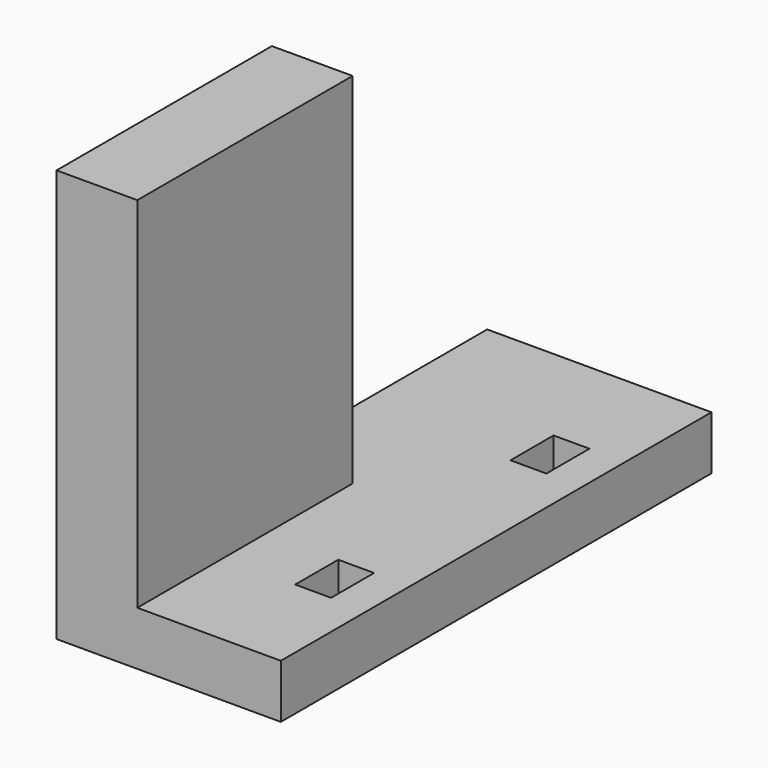
from build123d import *

# Parameters (mm, degrees)
BOX007_W     = 2
BOX007_H     = 3
BOX007_DEPTH = 3
BOX008_W     = 2
BOX008_H     = 3
BOX008_DEPTH = 3
BOX006_W     = 12.5
BOX006_H     = 30
BOX006_DEPTH = 3
BOX005_W     = 4.5
BOX005_H     = 15
BOX005_DEPTH = 20


with BuildPart() as cube007:
    # Box007 → Box007 (new body)
    with BuildSketch(Plane(origin=(-5.5, -34, -3), x_dir=(1, 0, 0), z_dir=(0, 0, 1))):
        with Locations((1, 1.5)):
            Rectangle(BOX007_W, BOX007_H)
    extrude(amount=BOX007_DEPTH)


with BuildPart() as fusion:
    # Box008 → Box008 (new body)
    with BuildSketch(Plane(origin=(-5.5, -19, -3), x_dir=(1, 0, 0), z_dir=(0, 0, 1))):
        with Locations((1, 1.5)):
            Rectangle(BOX008_W, BOX008_H)
    extrude(amount=BOX008_DEPTH)

    # Fusion: union Cube007
    add(cube007.part)


with BuildPart() as cut004:
    # Box006 → Box006 (new body)
    with BuildSketch(Plane(origin=(-14, -40, -3), x_dir=(1, 0, 0), z_dir=(0, 0, 1))):
        with Locations((6.25, 15)):
            Rectangle(BOX006_W, BOX006_H)
    extrude(amount=BOX006_DEPTH)

    # Cut004: cut Fusion
    add(fusion.part, mode=Mode.SUBTRACT)


with BuildPart() as lock:
    # Box005 → Box005 (new body)
    with BuildSketch(Plane(origin=(-14, -40, 0), x_dir=(1, 0, 0), z_dir=(0, 0, 1))):
        with Locations((2.25, 7.5)):
            Rectangle(BOX005_W, BOX005_H)
    extrude(amount=BOX005_DEPTH)

    # Fusion001: union Cut004
    add(cut004.part)


solid = lock.part
